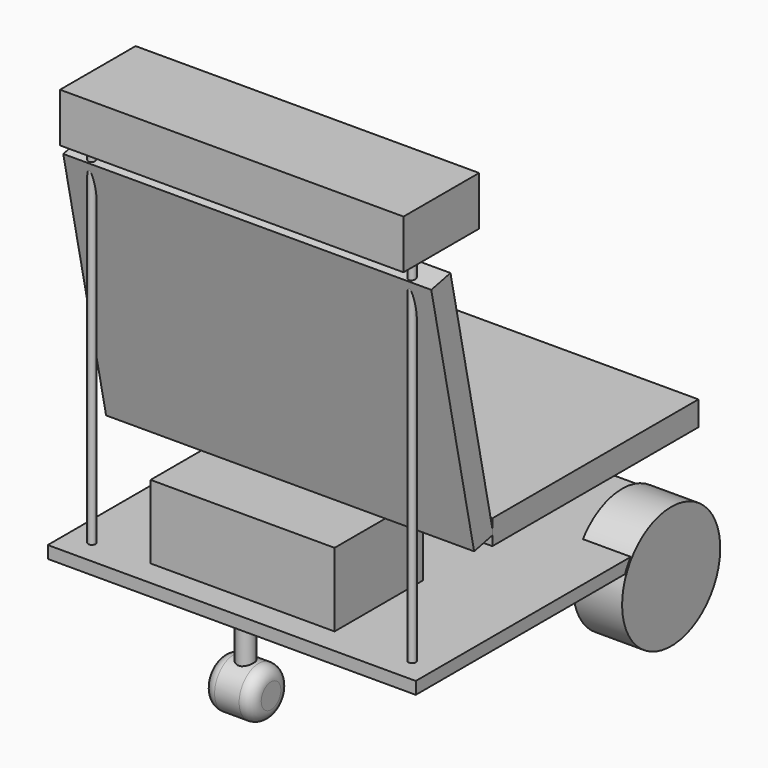
from build123d import *

# Parameters (mm, degrees)
BOX_W                   = 300
BOX_H                   = 300
BOX_DEPTH               = 10
BOX001_W                = 280
BOX001_H                = 77
BOX001_DEPTH            = 40
BOX002_W                = 150
BOX002_H                = 90
BOX002_DEPTH            = 60
BOX003_W                = 300
BOX003_H                = 210
BOX003_DEPTH            = 20
BOX003_PLACEMENT_ANGLE  = 102
BOX004_W                = 300
BOX004_H                = 210
BOX004_DEPTH            = 20
CYLINDER_R              = 50
CYLINDER_DEPTH          = 40
CYLINDER_PITCH_ANGLE    = -90
CYLINDER001_R           = 50
CYLINDER001_DEPTH       = 40
CYLINDER001_PITCH_ANGLE = -90
CYLINDER002_R           = 3
CYLINDER002_DEPTH       = 300
CYLINDER003_R           = 3
CYLINDER003_DEPTH       = 300
CYLINDER006_R           = 7
CYLINDER006_DEPTH       = 37
CYLINDER004_R           = 20
CYLINDER004_DEPTH       = 40
CYLINDER004_PITCH_ANGLE = -90
FILLET_R                = 10


with BuildPart() as base:
    # Box → Box (new body)
    with BuildSketch(Plane.XY):
        with Locations((150, 150)):
            Rectangle(BOX_W, BOX_H)
    extrude(amount=BOX_DEPTH)


with BuildPart() as obj1:
    # Box001 → Box001 (new body)
    with BuildSketch(Plane(origin=(10, 0, 300), x_dir=(1, 0, 0), z_dir=(0, 0, 1))):
        with Locations((140, 38.5)):
            Rectangle(BOX001_W, BOX001_H)
    extrude(amount=BOX001_DEPTH)


with BuildPart() as battery:
    # Box002 → Box002 (new body)
    with BuildSketch(Plane(origin=(67, 21, 10), x_dir=(1, 0, 0), z_dir=(0, 0, 1))):
        with Locations((75, 45)):
            Rectangle(BOX002_W, BOX002_H)
    extrude(amount=BOX002_DEPTH)


with BuildPart() as lap_top:
    # Box003 → Box003 (new body)
    with BuildSketch(Plane.XY):
        with Locations((150, 105)):
            Rectangle(BOX003_W, BOX003_H)
    extrude(amount=BOX003_DEPTH)


with BuildPart() as lap_top_1:
    # Box003 placement: moved
    add(lap_top.part.moved(Location((0, 79, 83))).rotate(Axis((0, 79, 83), (1, 0, 0)), BOX003_PLACEMENT_ANGLE))


with BuildPart() as lap_bot:
    # Box004 → Box004 (new body)
    with BuildSketch(Plane(origin=(0, 78, 75), x_dir=(1, 0, 0), z_dir=(0, 0, 1))):
        with Locations((150, 105)):
            Rectangle(BOX004_W, BOX004_H)
    extrude(amount=BOX004_DEPTH)


with BuildPart() as wheel:
    # Cylinder → Cylinder (new body)
    with BuildSketch(Plane.XY):
        Circle(CYLINDER_R)
    extrude(amount=CYLINDER_DEPTH)


with BuildPart() as wheel_1:
    # Cylinder pitch: moved
    add(wheel.part.rotate(Axis((0, 0, 0), (0, 1, 0)), CYLINDER_PITCH_ANGLE))


with BuildPart() as wheel_2:
    # Cylinder placement: moved
    add(wheel_1.part.moved(Location((39, 254, -20))))


with BuildPart() as wheel1:
    # Cylinder001 → Cylinder001 (new body)
    with BuildSketch(Plane.XY):
        Circle(CYLINDER001_R)
    extrude(amount=CYLINDER001_DEPTH)


with BuildPart() as wheel1_1:
    # Cylinder001 pitch: moved
    add(wheel1.part.rotate(Axis((0, 0, 0), (0, 1, 0)), CYLINDER001_PITCH_ANGLE))


with BuildPart() as wheel1_2:
    # Cylinder001 placement: moved
    add(wheel1_1.part.moved(Location((301, 259, -20))))


with BuildPart() as cylinder:
    # Cylinder002 → Cylinder002 (new body)
    with BuildSketch(Plane(origin=(20, 20, 0), x_dir=(1, 0, 0), z_dir=(0, 0, 1))):
        Circle(CYLINDER002_R)
    extrude(amount=CYLINDER002_DEPTH)


with BuildPart() as cylinder001:
    # Cylinder003 → Cylinder003 (new body)
    with BuildSketch(Plane(origin=(281, 20, 0), x_dir=(1, 0, 0), z_dir=(0, 0, 1))):
        Circle(CYLINDER003_R)
    extrude(amount=CYLINDER003_DEPTH)


with BuildPart() as cylinder003:
    # Cylinder006 → Cylinder006 (new body)
    with BuildSketch(Plane(origin=(150, 14, -38), x_dir=(1, 0, 0), z_dir=(0, 0, 1))):
        Circle(CYLINDER006_R)
    extrude(amount=CYLINDER006_DEPTH)


with BuildPart() as fillet_body:
    # Cylinder004 → Cylinder004 (new body)
    with BuildSketch(Plane.XY):
        Circle(CYLINDER004_R)
    extrude(amount=CYLINDER004_DEPTH)


with BuildPart() as fillet_body_1:
    # Cylinder004 pitch: moved
    add(fillet_body.part.rotate(Axis((0, 0, 0), (0, 1, 0)), CYLINDER004_PITCH_ANGLE))


with BuildPart() as fillet_body_2:
    # Cylinder004 placement: moved
    add(fillet_body_1.part.moved(Location((170, 15, -49))))

    # Fillet
    fillet_edges = [fillet_body_2.edges().sort_by_distance(p)[0] for p in [
        (130, 15, -69),
        (170, 15, -69),
    ]]
    fillet(fillet_edges, radius=FILLET_R)


solid = Compound([base.part, obj1.part, battery.part, lap_top_1.part, lap_bot.part, wheel_2.part, wheel1_2.part, cylinder.part, cylinder001.part, cylinder003.part, fillet_body_2.part])
